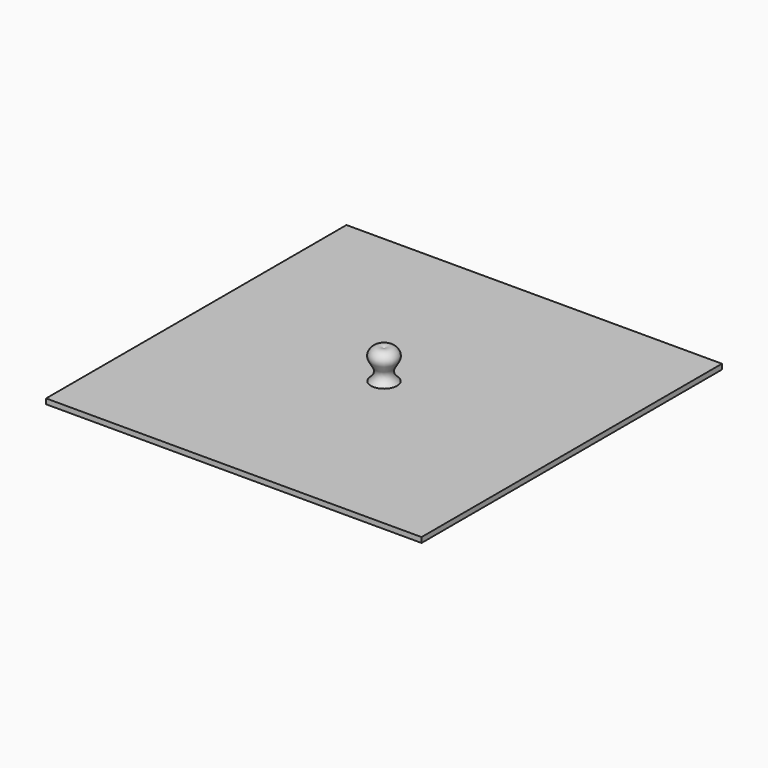
from build123d import *

# Parameters (mm, degrees)
F0_W     = 130
F0_H     = 130
F1_DEPTH = 1.8


with BuildPart() as f1:
    # F0 (on Top) → F1 (new body)
    with BuildSketch(Plane.XY):
        Rectangle(F0_W, F0_H)
    extrude(amount=F1_DEPTH)

    # F2 (on Right) → F3 (revolve)
    with BuildSketch(Plane.YZ):
        with BuildLine():
            add(Edge.make_bspline(
                [(4.514478147, 1.8), (3.0985618876, 2.9801836264), (1.7075350361, 5.5806626994), (6.3682620966, 9.6029458568), (2.3585455492, 13.2369631901), (0, 11.8)],
                knots=[0, 0, 0, 0, 0.3155398703, 0.6506328261, 1, 1, 1, 1], degree=3))
            Line((0, 11.8), (0, 1.8))
            Line((0, 1.8), (4.514478147, 1.8))
        make_face()
    revolve(axis=Axis((0, 0, 6.8), (0, 0, -1)))


solid = f1.part
